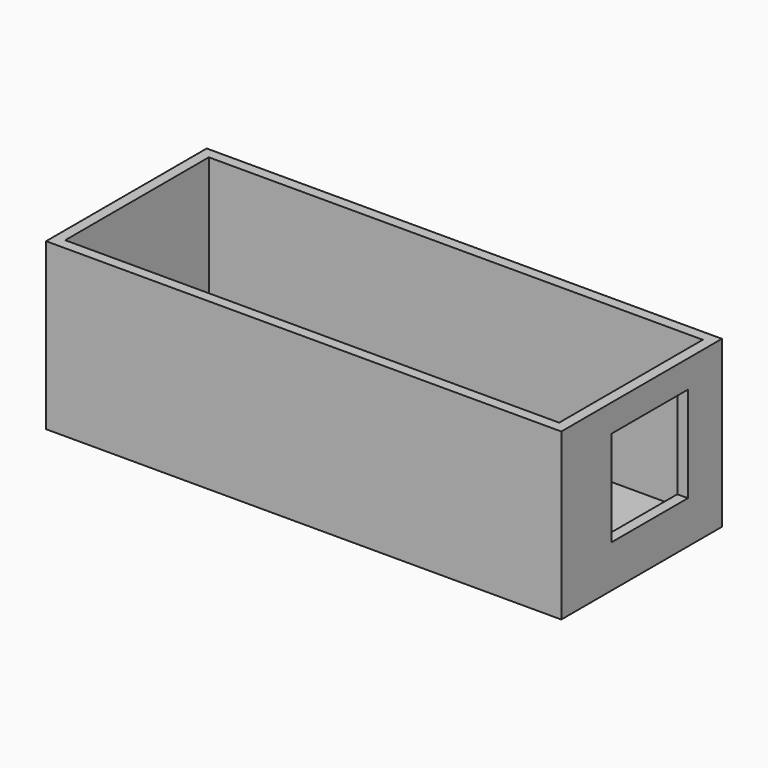
from build123d import *

# Parameters (mm, degrees)
F0_W     = 14782.8
F0_H     = 5760.72
F0_W_2   = 14173.2
F0_H_2   = 5151.12
F1_DEPTH = 4445
F2_W     = 5760.72
F2_H     = 304.8
F3_DEPTH = 14782.8
F4_W     = 2743.2
F4_H     = 2743.2
F5_DEPTH = 304.8
F6_W     = 914.4
F6_H     = 2133.6
F7_DEPTH = 304.8


with BuildPart() as f1:
    # F0 (on Top) → F1 (new body)
    with BuildSketch(Plane.XY):
        Rectangle(F0_W, F0_H)
        Rectangle(F0_W_2, F0_H_2, mode=Mode.SUBTRACT)
    extrude(amount=F1_DEPTH)

    # F2 (on face) → F3 (join, through all)
    with BuildSketch(Plane(origin=(-7391.4, 0, 0), x_dir=(0, -1, 0), z_dir=(-1, 0, 0))):
        with Locations((0, -152.4)):
            Rectangle(F2_W, F2_H)
    extrude(amount=-F3_DEPTH)

    # F4 (on face) → F5 (cut, through all)
    with BuildSketch(Plane.YZ.offset(7391.4)):
        with Locations((289.56, 2286)):
            Rectangle(F4_W, F4_H)
    extrude(amount=-F5_DEPTH, mode=Mode.SUBTRACT)

    # F6 (on face) → F7 (cut, through all)
    with BuildSketch(Plane.YZ.offset(-7086.6)):
        with Locations((-1813.56, 1066.8)):
            Rectangle(F6_W, F6_H)
    extrude(amount=-F7_DEPTH, mode=Mode.SUBTRACT)


solid = f1.part
